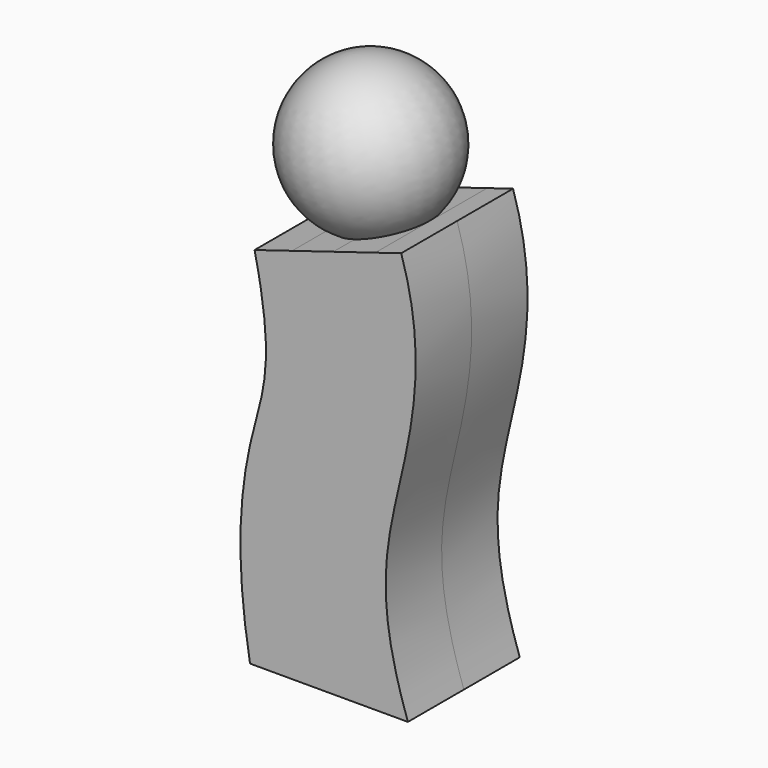
from build123d import *

# Parameters (mm, degrees)
F1_DEPTH = 15.5


with BuildPart() as f1:
    # F0 (on Front) → F1 (new body, symmetric)
    with BuildSketch(Plane.XZ):
        with BuildLine():
            add(Edge.make_bspline(
                [(-5.687888085, -55.4582746674), (-9.4004421074, -34.249505381), (-6.069453085, -7.9945466424), (0, 4.5899697579), (-4.687888085, 25.601087372)],
                knots=[0, 0, 0, 0, 0.5285575059, 1, 1, 1, 1], degree=3))
            Line((-5.687888085, -55.4582746674), (29.312111915, -55.4582746674))
            add(Edge.make_bspline(
                [(27.8264736177, 35.5417253326), (34.1653276012, 15.7985504322), (25.4654256596, -14.1689126561), (22.473402266, -35.6767521417), (29.312111915, -55.4582746674)],
                knots=[0, 0, 0, 0, 0.5157846804, 1, 1, 1, 1], degree=3))
            Line((27.8264736177, 35.5417253326), (22.0802056145, 33.7849149001))
            Line((22.0802056145, 33.7849149001), (12.7717658862, 30.9390392787))
            Line((12.7717658862, 30.9390392787), (3.6356674394, 28.1458536746))
            Line((3.6356674394, 28.1458536746), (-4.687888085, 25.601087372))
        make_face()
    extrude(amount=F1_DEPTH, both=True)

    # F0 (on Front) → F2 (revolve)
    with BuildSketch(Plane.XZ):
        with BuildLine():
            ThreePointArc((3.7083128607, 60.5842583396), (-8.2352247092, 44.3917220732), (3.6356674394, 28.1458536746))
            Line((3.6356674394, 28.1458536746), (12.7717658862, 30.9390392787))
            Line((12.7717658862, 30.9390392787), (3.7083128607, 60.5842583396))
        make_face()
    revolve(axis=Axis((8.2400393735, 0, 45.7616488091), (-0.2923717047, 0, 0.956304756)))


solid = f1.part
